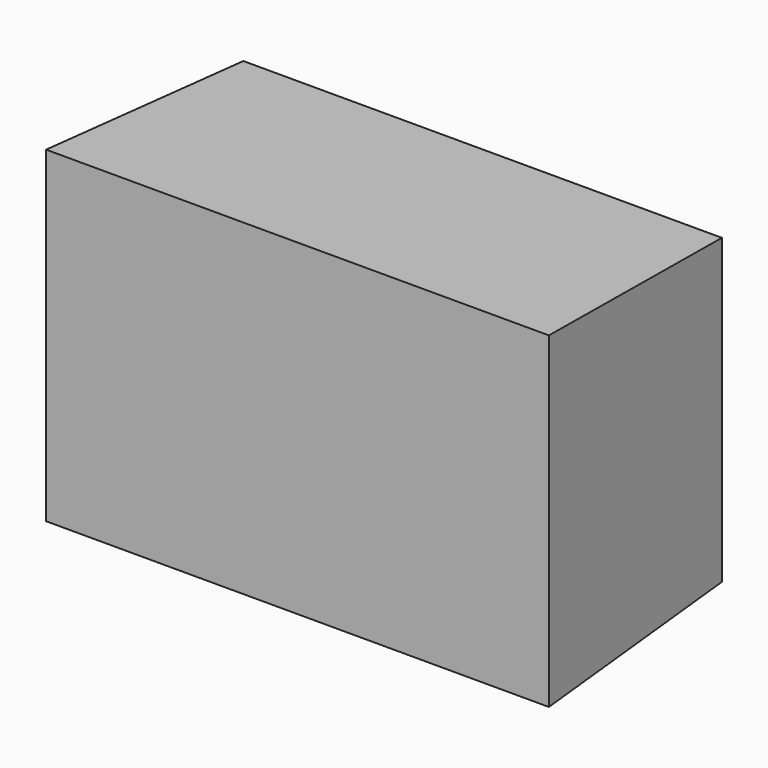
from build123d import *

# Parameters (mm, degrees)
F0_W     = 52.5245480239
F0_H     = 33.2415662706
F1_DEPTH = 25.4
F1_TAPER = -3


with BuildPart() as f1:
    # F0 (on Front) → F1 (new body)
    with BuildSketch(Plane.XZ):
        with Locations((26.262274012, 16.6207831353)):
            Rectangle(F0_W, F0_H)
    extrude(amount=F1_DEPTH, taper=F1_TAPER)


solid = f1.part
